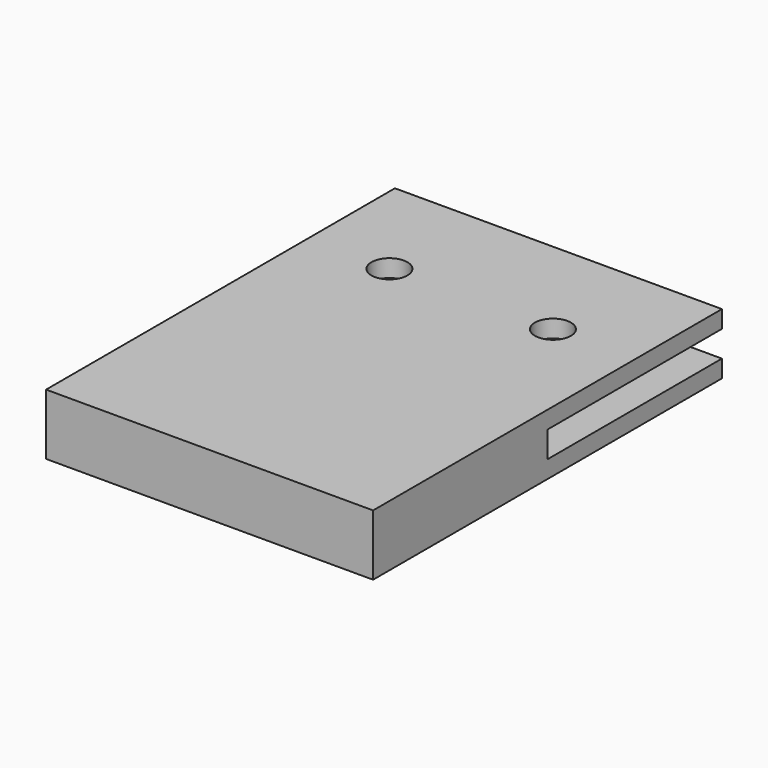
from build123d import *

# Parameters (mm, degrees)
F1_DEPTH = 30
F2_R     = 1.65
F3_DEPTH = 5.6
F5_DEPTH = 0.8


with BuildPart() as f1:
    # F0 (on Right) → F1 (new body)
    with BuildSketch(Plane.YZ):
        Polygon((-20, 5.6), (-20, 0), (20, 0), (20, 1.6), (0, 1.6), (0, 4), (20, 4), (20, 5.6), align=None)
    extrude(amount=F1_DEPTH)

    # F2 (on face) → F3 (cut, through all)
    with BuildSketch(Plane.XY.offset(5.6)):
        with Locations((7.5, 10)):
            Circle(F2_R)
        with Locations((22.5, 10)):
            Circle(F2_R)
    extrude(amount=-F3_DEPTH, mode=Mode.SUBTRACT)

    # F4 (on face) → F5 (cut)
    with BuildSketch(Plane(origin=(0, 0, 0), x_dir=(1, 0, 0), z_dir=(0, 0, -1))):
        Polygon((25.733162, -10), (24.116581, -7.2), (20.883419, -7.2), (19.266838, -10), (20.883419, -12.8), (24.116581, -12.8), align=None)
        Polygon((10.733162, -10), (9.116581, -7.2), (5.883419, -7.2), (4.266838, -10), (5.883419, -12.8), (9.116581, -12.8), align=None)
    extrude(amount=-F5_DEPTH, mode=Mode.SUBTRACT)


solid = f1.part
